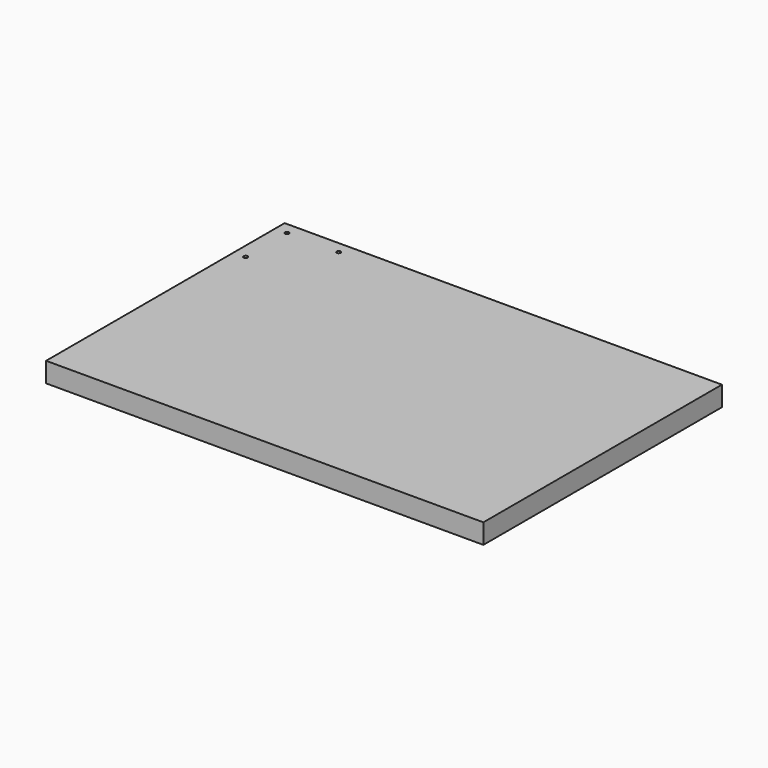
from build123d import *

# Parameters (mm, degrees)
F0_W     = 1100
F0_H     = 750
F1_DEPTH = 50
F2_R     = 5
F3_DEPTH = 50.001


with BuildPart() as f1:
    # F0 (on Top) → F1 (new body)
    with BuildSketch(Plane.XY):
        with Locations((22.067992, 151.804131)):
            Rectangle(F0_W, F0_H)
    extrude(amount=F1_DEPTH)

    # F2 (on face) → F3 (cut, through all)
    with BuildSketch(Plane.XY.offset(50)):
        with Locations((-497.932008, 496.804131)):
            Circle(F2_R)
        with Locations((-367.932008, 496.804131)):
            Circle(F2_R)
        with Locations((-497.932008, 366.804131)):
            Circle(F2_R)
    extrude(amount=-F3_DEPTH, mode=Mode.SUBTRACT)


solid = f1.part
